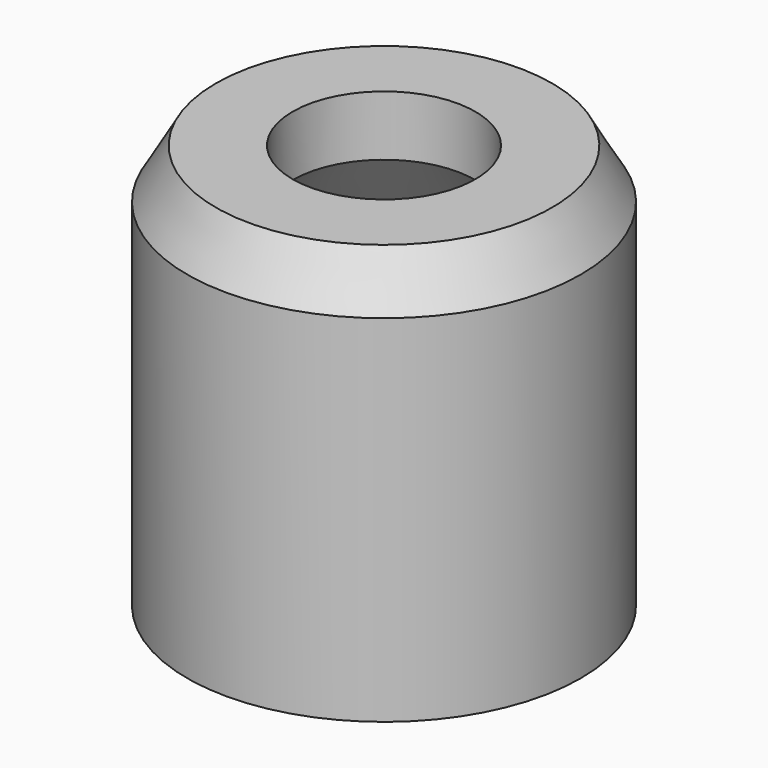
from build123d import *

# Parameters (mm, degrees)
F2_SIZE2 = 5.7735026919
F2_SIZE  = 10


with BuildPart() as f1:
    # F0 (on Front) → F1 (revolve)
    with BuildSketch(Plane.XZ):
        Polygon((-18.4111231562, 43.264336884), (-39.6397709846, 43.264336884), (-39.6397709846, -38.3053123951), (0, -38.3053123951), (0, -31.402277634), (-28.2403276857, -31.402277634), (-28.2403276857, 17.7437487389), (-18.4111231562, 31.1472091223), align=None)
    revolve(axis=Axis((0, 0, -34.8537950146), (0, 0, 1)))

    # F2
    f2_edges = [f1.edges().sort_by_distance(p)[0] for p in [
        (39.639771, 0, 43.264337),
    ]]
    f2_side = f1.faces().sort_by_distance((39.639771, 0, 2.479512))[0]
    chamfer(f2_edges, length=F2_SIZE, length2=F2_SIZE2, reference=f2_side)


solid = f1.part
